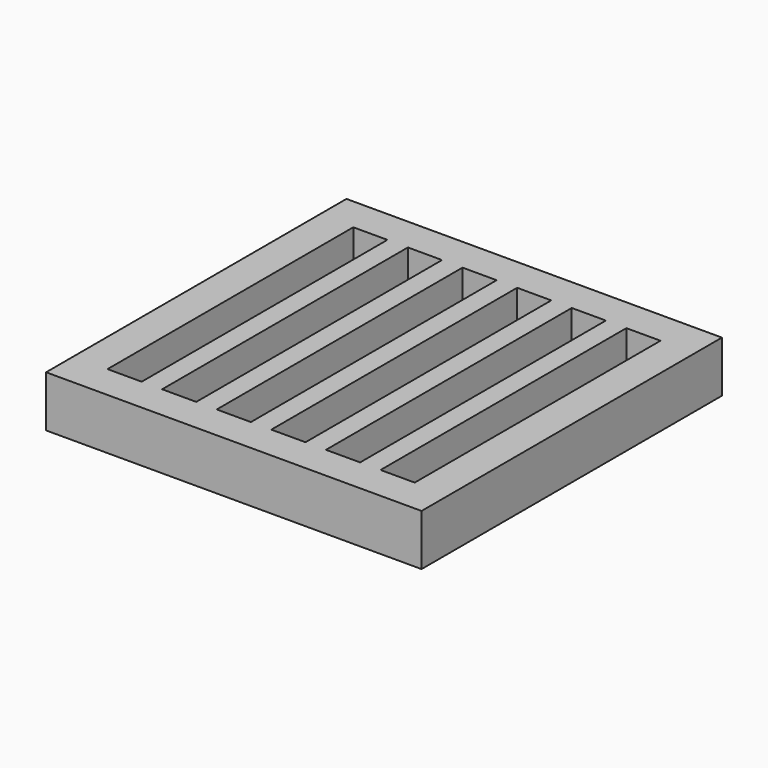
from build123d import *

# Parameters (mm, degrees)
F0_W     = 1100
F0_H     = 1100
F1_DEPTH = 150
F2_W     = 100
F2_H     = 900
F3_DEPTH = 150


with BuildPart() as f1:
    # F0 (on Top) → F1 (new body)
    with BuildSketch(Plane.XY):
        Rectangle(F0_W, F0_H)
    extrude(amount=F1_DEPTH)

    # F2 (on face) → F3 (cut)
    with BuildSketch(Plane.XY.offset(150)):
        with Locations((-400, 0)):
            Rectangle(F2_W, F2_H)
        with Locations((-240, 0)):
            Rectangle(F2_W, F2_H)
        with Locations((-80, 0)):
            Rectangle(F2_W, F2_H)
        with Locations((80, 0)):
            Rectangle(F2_W, F2_H)
        with Locations((240, 0)):
            Rectangle(F2_W, F2_H)
        with Locations((400, 0)):
            Rectangle(F2_W, F2_H)
    extrude(amount=-F3_DEPTH, mode=Mode.SUBTRACT)


solid = f1.part
